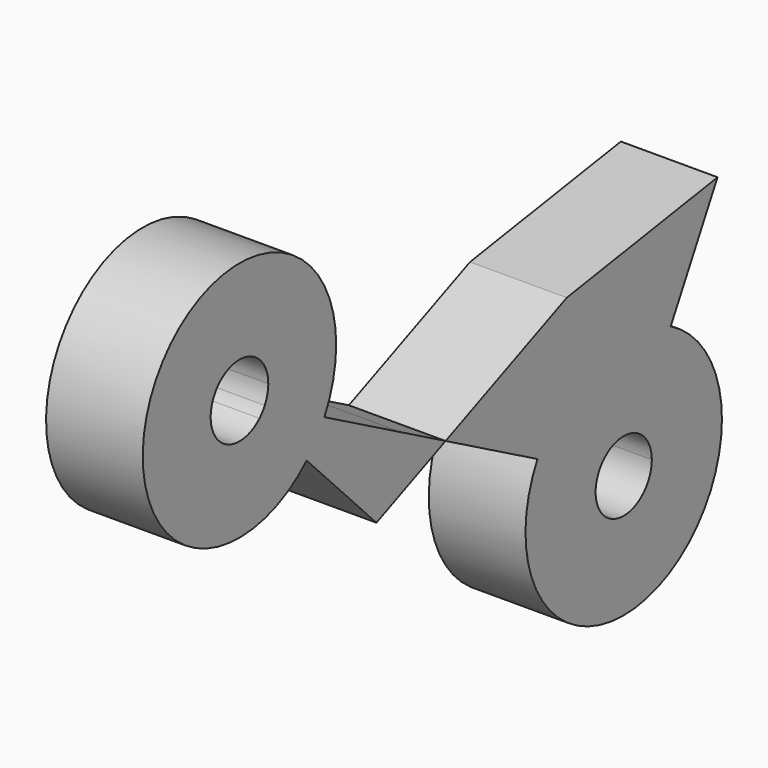
from build123d import *

# Parameters (mm, degrees)
F1_DEPTH = 25.4


with BuildPart() as f1:
    # F0 (on Right) → F1 (new body)
    with BuildSketch(Plane.YZ):
        with BuildLine():
            ThreePointArc((-70.0222382875, 113.3382245898), (-70.3151022367, 111.0024630371), (-71.1755628917, 108.8113083676))
            Line((-71.1755628917, 108.8113083676), (-51.6063096056, 98.1478271972))
            ThreePointArc((-51.6063096056, 98.1478271972), (-48.7189711509, 105.5004064241), (-47.7362448197, 113.3382245898))
            ThreePointArc((-47.7362448197, 113.3382245898), (-108.7073822034, 125.7405137142), (-57.4264187124, 90.5047484631))
            Line((-57.4264187124, 90.5047484631), (-72.9100235282, 106.5335814449))
            ThreePointArc((-72.9100235282, 106.5335814449), (-88.1923508772, 117.0342519141), (-70.0222382875, 113.3382245898))
        make_face()
        with BuildLine():
            Line((-51.6063096056, 98.1478271972), (-71.1755628917, 108.8113083676))
            ThreePointArc((-71.1755628917, 108.8113083676), (-71.956137986, 107.6064580343), (-72.9100235282, 106.5335814449))
            Line((-72.9100235282, 106.5335814449), (-57.4264187124, 90.5047484631))
            ThreePointArc((-57.4264187124, 90.5047484631), (-54.2255862379, 94.1048640707), (-51.6063096056, 98.1478271972))
        make_face()
        with BuildLine():
            Line((-26.4673965782, 84.4493829186), (-51.6063096056, 98.1478271972))
            ThreePointArc((-51.6063096056, 98.1478271972), (-54.2255862379, 94.1048640707), (-57.4264187124, 90.5047484631))
            Line((-57.4264187124, 90.5047484631), (-34.516941756, 66.7885541916))
            Line((-34.516941756, 66.7885541916), (-26.4673965782, 84.4493829186))
        make_face()
        Polygon((-11.8214198832, 76.4686442349), (-26.4673965782, 84.4493829186), (-34.516941756, 66.7885541916), align=None)
    extrude(amount=F1_DEPTH)


with BuildPart() as f1b:
    # F0 (on Right) → F1, piece 2 (new body)
    with BuildSketch(Plane.YZ):
        with BuildLine():
            Line((27.9451236129, 93.4298634529), (-11.8214198832, 76.4686442349))
            Line((-11.8214198832, 76.4686442349), (18.3397991763, 60.03349534))
            ThreePointArc((18.3397991763, 60.03349534), (37.5397314268, 75.533409985), (62.0762284728, 72.9171024455))
            Line((62.0762284728, 72.9171024455), (77.4021462121, 101.0426987012))
            Line((77.4021462121, 101.0426987012), (77.3372796835, 101.1303694345))
            Line((77.3372796835, 101.1303694345), (27.9451236129, 93.4298634529))
        make_face()
        with BuildLine():
            ThreePointArc((62.0762284728, 72.9171024455), (37.5397314268, 75.533409985), (18.3397991763, 60.03349534))
            Line((18.3397991763, 60.03349534), (38.5520411479, 49.0196432258))
            ThreePointArc((38.5520411479, 49.0196432258), (44.043975271, 53.4532271069), (51.0623763587, 52.7048604739))
            Line((51.0623763587, 52.7048604739), (62.0762284728, 72.9171024455))
        make_face()
        with BuildLine():
            Line((38.5520411479, 49.0196432258), (18.3397991763, 60.03349534))
            ThreePointArc((18.3397991763, 60.03349534), (38.6902227736, 13.3648669164), (78.8900296879, 44.6070842445))
            ThreePointArc((78.8900296879, 44.6070842445), (74.3696844291, 61.0703846567), (62.0762284728, 72.9171024455))
            Line((62.0762284728, 72.9171024455), (51.0623763587, 52.7048604739))
            ThreePointArc((51.0623763587, 52.7048604739), (54.5787872177, 49.316234263), (55.8717833622, 44.6070842445))
            ThreePointArc((55.8717833622, 44.6070842445), (44.3730609471, 35.6705839908), (38.5520411479, 49.0196432258))
        make_face()
        Polygon((77.4603764873, 101.1495608963), (77.3372796835, 101.1303694345), (77.4021462121, 101.0426987012), align=None)
    extrude(amount=F1_DEPTH)


solid = Compound([f1.part, f1b.part])
